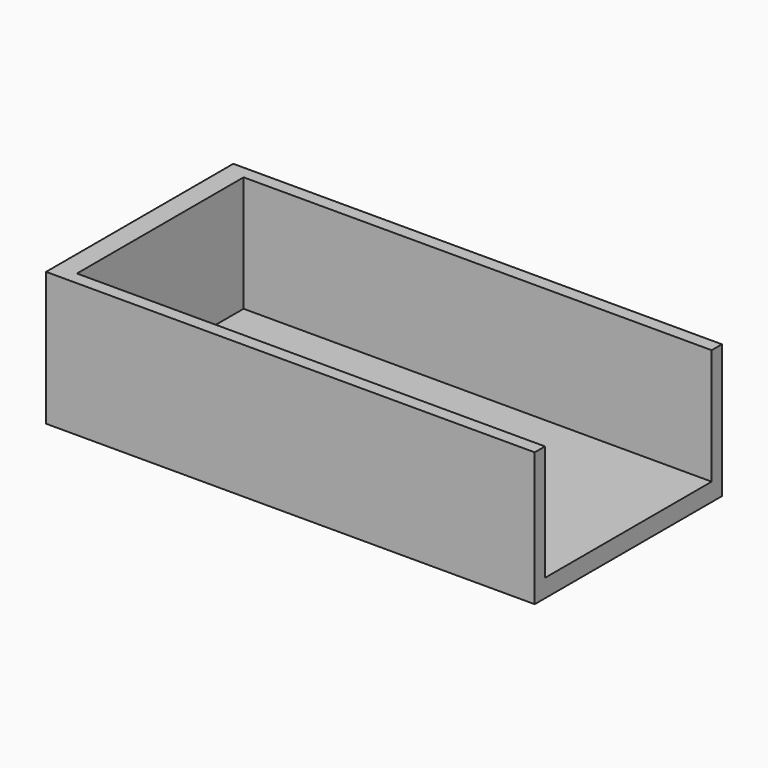
from build123d import *

# Parameters (mm, degrees)
F1_DEPTH = 182
F2_W     = 91
F2_H     = 52
F3_DEPTH = 8
F5_DEPTH = 25
F6_R     = 4.5
F7_DEPTH = 3


with BuildPart() as f1:
    # F0 (on Right) → F1 (new body)
    with BuildSketch(Plane.YZ):
        Polygon((-0.5, -20), (-40.5, -20), (-40.5, 25), (-45.5, 25), (-45.5, -27), (45.5, -27), (45.5, 25), (40.5, 25), (40.5, -20), (0.5, -20), align=None)
    extrude(amount=F1_DEPTH)

    # F2 (on face) → F3 (join)
    with BuildSketch(Plane(origin=(0, 0, 0), x_dir=(0, -1, 0), z_dir=(-1, 0, 0))):
        with Locations((0, -1)):
            Rectangle(F2_W, F2_H)
    extrude(amount=F3_DEPTH)

    # F4 (on face) → F5 (cut)
    with BuildSketch(Plane.XY.offset(-20)):
        with BuildLine():
            ThreePointArc((30, 0), (29.12132, 2.12132), (27, 3))
            Line((27, 3), (27, -3))
            ThreePointArc((27, -3), (29.12132, -2.12132), (30, 0))
        make_face()
        with BuildLine():
            Line((27, -3), (27, 3))
            ThreePointArc((27, 3), (24, 0), (27, -3))
        make_face()
        with BuildLine():
            ThreePointArc((93, 0), (92.12132, 2.12132), (90, 3))
            Line((90, 3), (90, -3))
            ThreePointArc((90, -3), (92.12132, -2.12132), (93, 0))
        make_face()
        with BuildLine():
            Line((90, -3), (90, 3))
            ThreePointArc((90, 3), (87, 0), (90, -3))
        make_face()
    extrude(amount=-F5_DEPTH, mode=Mode.SUBTRACT)

    # F6 (on face) → F7 (cut)
    with BuildSketch(Plane.XY.offset(-20)):
        with Locations((27, 0)):
            Circle(F6_R)
        with Locations((90, 0)):
            Circle(F6_R)
    extrude(amount=-F7_DEPTH, mode=Mode.SUBTRACT)


solid = f1.part
